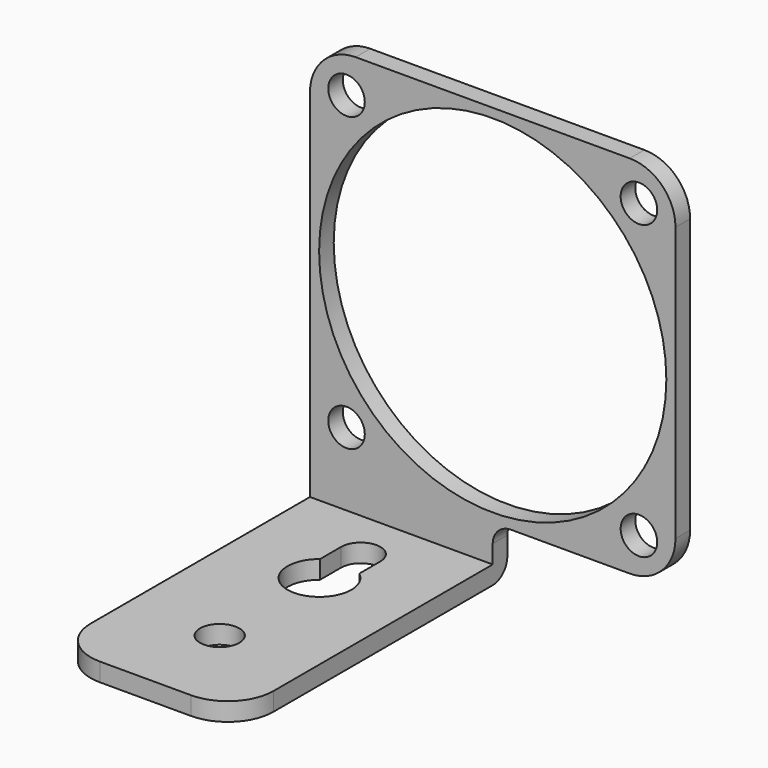
from build123d import *

# Parameters (mm, degrees)
F0_W     = 40
F0_H     = 40
F0_R     = 2
F0_R_2   = 19
F1_DEPTH = 2
F2_W     = 20
F2_H     = 2
F3_DEPTH = 6
F4_W     = 20
F4_H     = 37
F5_DEPTH = 2
F6_R     = 5
F7_R     = 2.15
F8_DEPTH = 3
F9_R     = 2


with BuildPart() as f1:
    # F0 (on Front) → F1 (new body)
    with BuildSketch(Plane.XZ):
        Rectangle(F0_W, F0_H)
        with Locations((-16, -16)):
            Circle(F0_R, mode=Mode.SUBTRACT)
        with Locations((16, -16)):
            Circle(F0_R, mode=Mode.SUBTRACT)
        with Locations((-16, 16)):
            Circle(F0_R, mode=Mode.SUBTRACT)
        Circle(F0_R_2, mode=Mode.SUBTRACT)
        with Locations((16, 16)):
            Circle(F0_R, mode=Mode.SUBTRACT)
    extrude(amount=F1_DEPTH)

    # F2 (on face) → F3 (join)
    with BuildSketch(Plane(origin=(0, 0, -20), x_dir=(1, 0, 0), z_dir=(0, 0, -1))):
        with Locations((-10, 1)):
            Rectangle(F2_W, F2_H)
    extrude(amount=F3_DEPTH)

    # F4 (on face) → F5 (join)
    with BuildSketch(Plane(origin=(0, 0, -26), x_dir=(1, 0, 0), z_dir=(0, 0, -1))):
        with Locations((-10, 18.5)):
            Rectangle(F4_W, F4_H)
    extrude(amount=-F5_DEPTH)

    # F6
    f6_edges = [f1.edges().sort_by_distance(p)[0] for p in [
        (20, -1, -20),
        (20, -1, 20),
        (-20, -1, 20),
        (-20, -37, -25),
        (0, -37, -25),
    ]]
    fillet(f6_edges, radius=F6_R)

    # F7 (on face) → F8 (cut)
    with BuildSketch(Plane(origin=(0, 0, -26), x_dir=(1, 0, 0), z_dir=(0, 0, -1))):
        with Locations((-10, 26.85)):
            Circle(F7_R)
        with BuildLine():
            Line((-12.15, 10.438207), (-12.15, 7.55))
            ThreePointArc((-12.15, 7.55), (-10, 5.4), (-7.85, 7.55))
            Line((-7.85, 7.55), (-7.85, 10.438207))
            ThreePointArc((-7.85, 10.438207), (-10, 16.7), (-12.15, 10.438207))
        make_face()
    extrude(amount=-F8_DEPTH, mode=Mode.SUBTRACT)

    # F9
    f9_edges = [f1.edges().sort_by_distance(p)[0] for p in [
        (0, -1, -20),
        (-10, 0, -26),
    ]]
    fillet(f9_edges, radius=F9_R)


solid = f1.part
